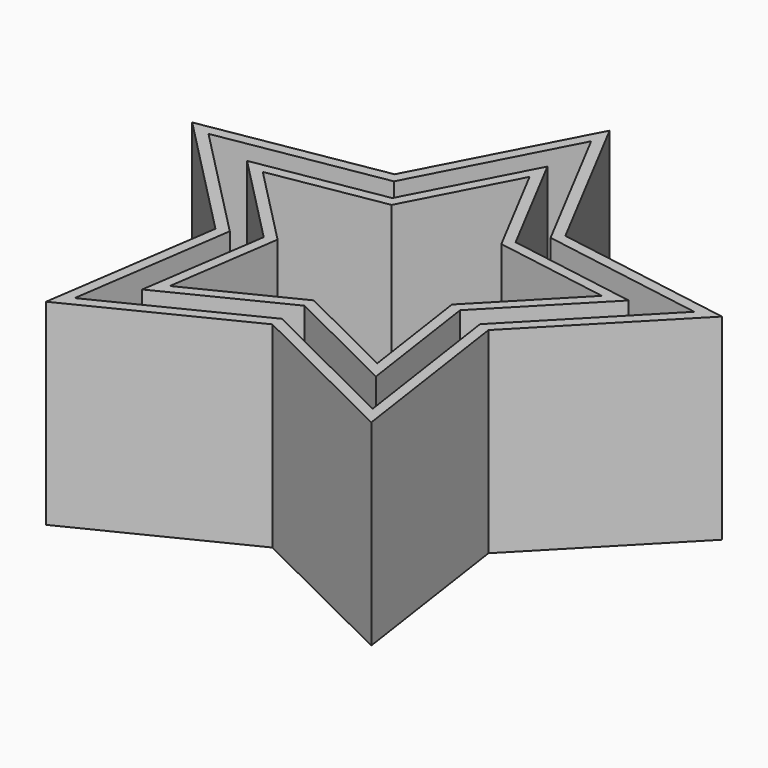
from build123d import *

# Parameters (mm, degrees)
F1_DEPTH = 5
F3_DEPTH = 55


with BuildPart() as f1:
    # F0 (on Top) → F1 (new body)
    with BuildSketch(Plane.XY):
        Polygon((-34.763327, -11.318235), (-41.496448, -57.185943), (-0.0018, -36.559422), (42.108634, -57.407447), (35.415632, -11.484328), (68.309159, 22.35061), (21.903292, 30.103534), (0.296809, 71.305215), (-21.50674, 29.564362), (-67.211132, 21.793876), align=None)
        Polygon((-16.844336, 23.155162), (0.309144, 55.993896), (17.253802, 23.681909), (53.77023, 17.581192), (27.885076, -9.044794), (33.131209, -45.040425), (-0.008188, -28.633779), (-32.499982, -44.785083), (-27.227054, -8.864577), (-52.640564, 17.069225), align=None, mode=Mode.SUBTRACT)
    extrude(amount=-F1_DEPTH)


with BuildPart() as f3:
    # F2 (on face) → F3 (new body)
    with BuildSketch(Plane(origin=(0, 0, -5), x_dir=(1, 0, 0), z_dir=(0, 0, -1))):
        Polygon((23.867865, -32.816896), (74.452369, -24.365858), (38.597557, 12.515117), (45.901911, 62.632949), (0.0009, 39.908285), (-45.297772, 62.425743), (-37.947667, 12.354991), (-73.367711, -23.790208), (-23.476769, -32.272474), (0.291597, -77.774787), align=None)
        Polygon((-21.50674, -29.564362), (-67.211132, -21.793876), (-34.763327, 11.318235), (-41.496448, 57.185943), (-0.0018, 36.559422), (42.108634, 57.407447), (35.415632, 11.484328), (68.309159, -22.35061), (21.903292, -30.103534), (0.296809, -71.305215), align=None, mode=Mode.SUBTRACT)
        Polygon((-16.844336, -23.155162), (0.309144, -55.993896), (17.253802, -23.681909), (53.77023, -17.581192), (27.885076, 9.044794), (33.131209, 45.040425), (-0.008188, 28.633779), (-32.499982, 44.785083), (-27.227054, 8.864577), (-52.640564, -17.069225), align=None)
        Polygon((24.809214, 8.048364), (47.831793, -15.63312), (15.354714, -21.058992), (0.314183, -49.739976), (-14.939974, -20.53732), (-46.689205, -15.139438), (-24.148858, 7.862379), (-28.825369, 39.719942), (-0.010798, 25.396545), (29.464374, 39.989106), align=None, mode=Mode.SUBTRACT)
    extrude(amount=-F3_DEPTH)


solid = Compound([f1.part, f3.part])
